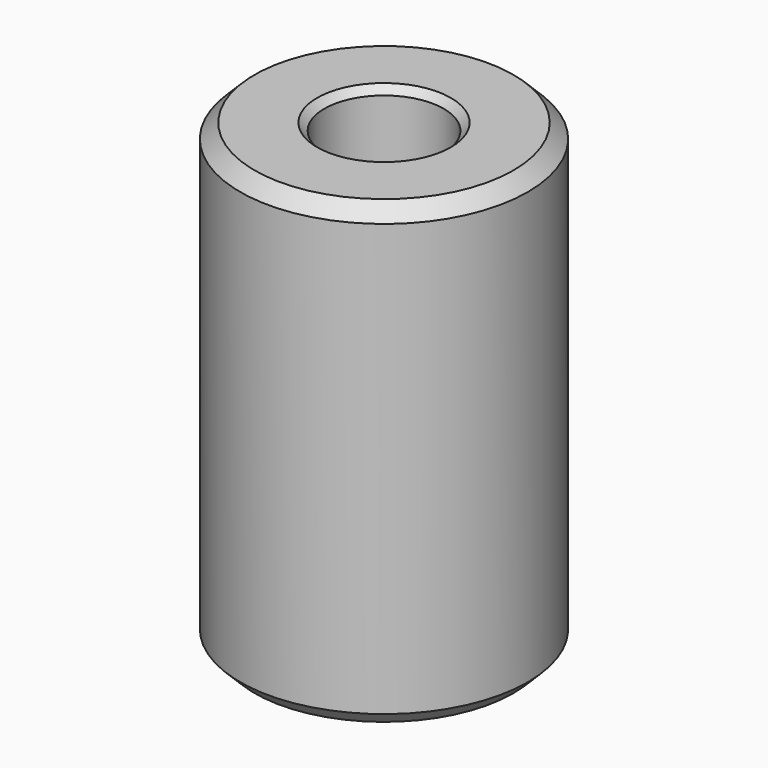
from build123d import *

# Parameters (mm, degrees)
F0_R     = 10
F0_R_2   = 4.15
F1_DEPTH = 32
F2_SIZE  = 1
F3_SIZE  = 0.5


with BuildPart() as f1:
    # F0 (on Top) → F1 (new body)
    with BuildSketch(Plane.XY):
        Circle(F0_R)
        Circle(F0_R_2, mode=Mode.SUBTRACT)
    extrude(amount=F1_DEPTH)

    # F2
    f2_edges = [f1.edges().sort_by_distance(p)[0] for p in [
        (-10, 0, 32),
        (10, 0, 16),
        (-10, 0, 0),
    ]]
    chamfer(f2_edges, length=F2_SIZE)

    # F3
    f3_edges = [f1.edges().sort_by_distance(p)[0] for p in [
        (4.15, 0, 16),
        (-4.15, 0, 0),
        (-4.15, 0, 32),
    ]]
    chamfer(f3_edges, length=F3_SIZE)


solid = f1.part
